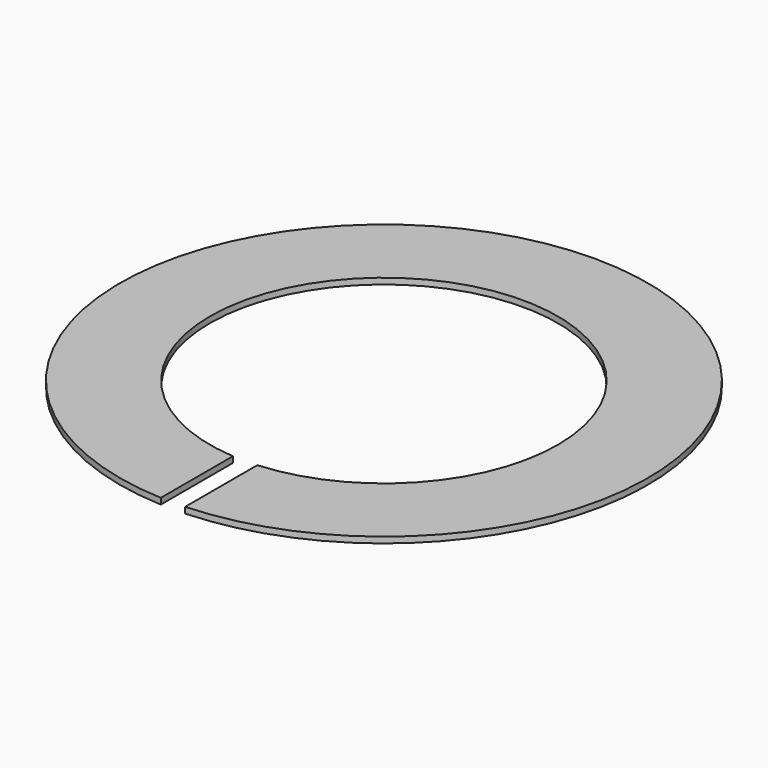
from build123d import *

# Parameters (mm, degrees)
F0_R     = 22
F1_DEPTH = 0.5
F2_R     = 14.5
F3_DEPTH = 25
F5_DEPTH = 25


with BuildPart() as f1:
    # F0 (on Top) → F1 (new body)
    with BuildSketch(Plane.XY):
        Circle(F0_R)
    extrude(amount=F1_DEPTH)

    # F2 (on face) → F3 (cut)
    with BuildSketch(Plane.XY.offset(0.5)):
        Circle(F2_R)
    extrude(amount=-F3_DEPTH, mode=Mode.SUBTRACT)

    # F4 (on face) → F5 (cut)
    with BuildSketch(Plane.XY.offset(0.5)):
        with BuildLine():
            ThreePointArc((-1.0157200741, -21.9765400537), (0, -22), (1.0157200741, -21.9765400537))
            Line((1.0157200741, -21.9765400537), (1.0157200741, -14.4643808278))
            ThreePointArc((1.0157200741, -14.4643808278), (0, -14.5), (-1.0157200741, -14.4643808278))
            Line((-1.0157200741, -14.4643808278), (-1.0157200741, -21.9765400537))
        make_face()
    extrude(amount=-F5_DEPTH, mode=Mode.SUBTRACT)


solid = f1.part
